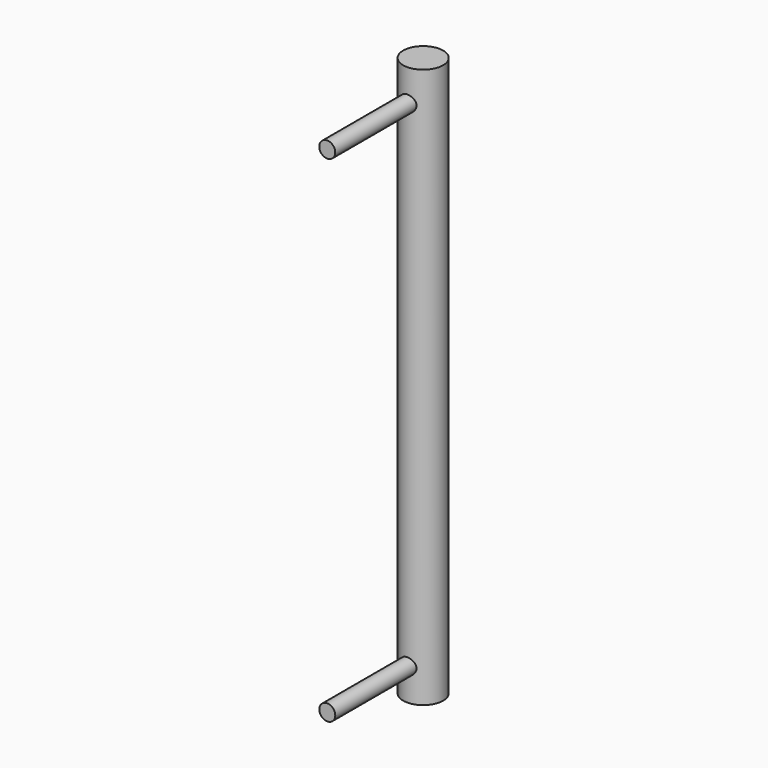
from build123d import *

# Parameters (mm, degrees)
F0_R     = 2.5
F1_DEPTH = 70
F2_R     = 1
F3_DEPTH = 15


with BuildPart() as f1:
    # F0 (on Top) → F1 (new body)
    with BuildSketch(Plane.XY):
        Circle(F0_R)
    extrude(amount=F1_DEPTH)

    # F2 (on Front) → F3 (join)
    with BuildSketch(Plane.XZ):
        with Locations((0, 66)):
            Circle(F2_R)
        with Locations((0, 4)):
            Circle(F2_R)
    extrude(amount=F3_DEPTH)


solid = f1.part
